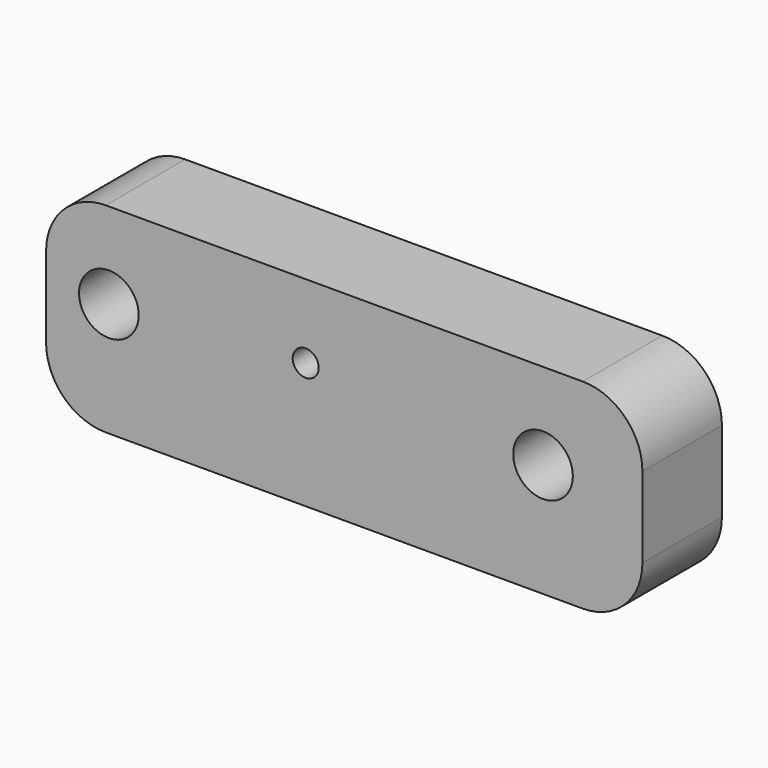
from build123d import *

# Parameters (mm, degrees)
F0_W     = 60
F0_H     = 20.115981
F0_R     = 3
F0_R_2   = 1.308767
F1_DEPTH = 10
F3_R     = 6


with BuildPart() as f1:
    # F0 (on Front) → F1 (new body)
    with BuildSketch(Plane.XZ):
        with Locations((30, 10.05799)):
            Rectangle(F0_W, F0_H)
        with Locations((6.314433, 11.456186)):
            Circle(F0_R, mode=Mode.SUBTRACT)
        with Locations((26.120204, 12.682377)):
            Circle(F0_R_2, mode=Mode.SUBTRACT)
        with Locations((50, 11.406668)):
            Circle(F0_R, mode=Mode.SUBTRACT)
    extrude(amount=F1_DEPTH)

    # F3
    f3_edges = [f1.edges().sort_by_distance(p)[0] for p in [
        (0, -5, 0),
        (0, -5, 20.115981),
        (60, -5, 0),
        (60, -5, 20.115981),
    ]]
    fillet(f3_edges, radius=F3_R)


solid = f1.part
